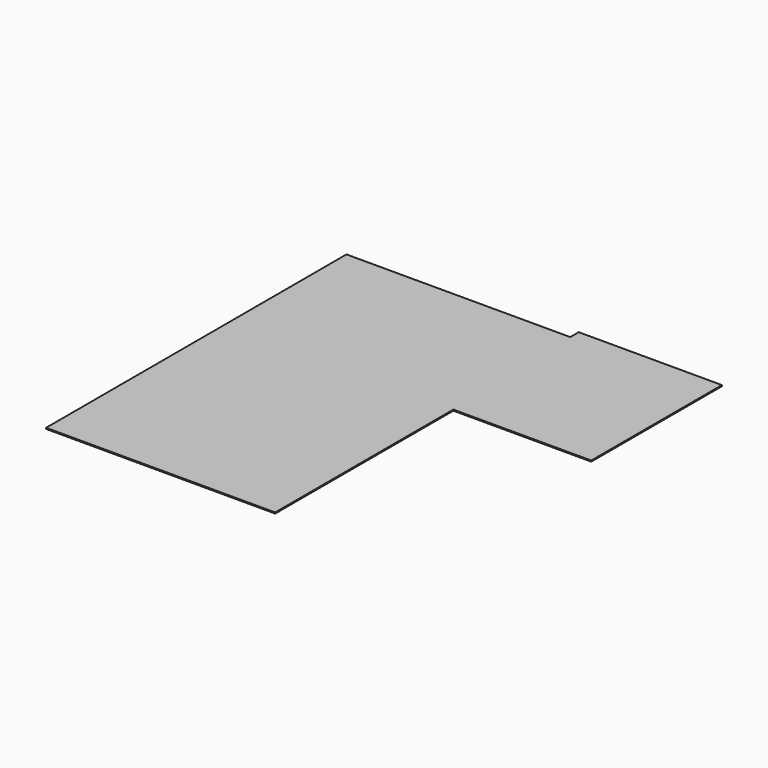
from build123d import *

# Parameters (mm, degrees)
F0_W     = 3429
F0_H     = 254
F1_DEPTH = 25.4


with BuildPart() as f1:
    # F0 (on Top) → F1 (new body)
    with BuildSketch(Plane.XY):
        with Locations((2679.7, 4622.8)):
            Rectangle(F0_W, F0_H)
        Polygon((965.2, 4495.8), (-4394.2, 4495.8), (-4394.2, -4495.8), (1092.2, -4495.8), (1092.2, 838.2), (4394.2, 838.2), (4394.2, 4495.8), align=None)
    extrude(amount=F1_DEPTH)


solid = f1.part
